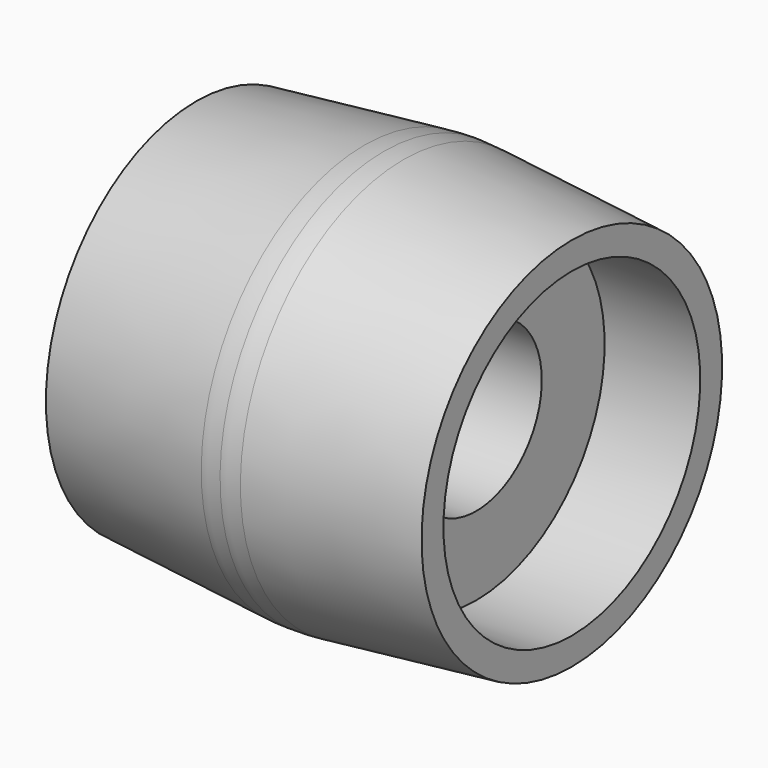
from build123d import *


with BuildPart() as f1:
    # F0 (on Front) → F1 (revolve)
    with BuildSketch(Plane.XZ):
        with BuildLine():
            Line((27.5, 23.5), (27.5, 27.5))
            Line((27.5, 27.5), (2.864325, 29.862948))
            ThreePointArc((2.864325, 29.862948), (1.433801, 29.965717), (0, 30))
            ThreePointArc((0, 30), (-1.433801, 29.965717), (-2.864325, 29.862948))
            Line((-2.864325, 29.862948), (-27.5, 27.5))
            Line((-27.5, 27.5), (-27.5, 23.5))
            Line((-27.5, 23.5), (-13.5, 23.5))
            Line((-13.5, 23.5), (-13.5, 12))
            Line((-13.5, 12), (0, 12))
            Line((0, 12), (13.5, 12))
            Line((13.5, 12), (13.5, 23.5))
            Line((13.5, 23.5), (27.5, 23.5))
        make_face()
    revolve(axis=Axis((13.75, 0, 0), (1, 0, 0)))


solid = f1.part
